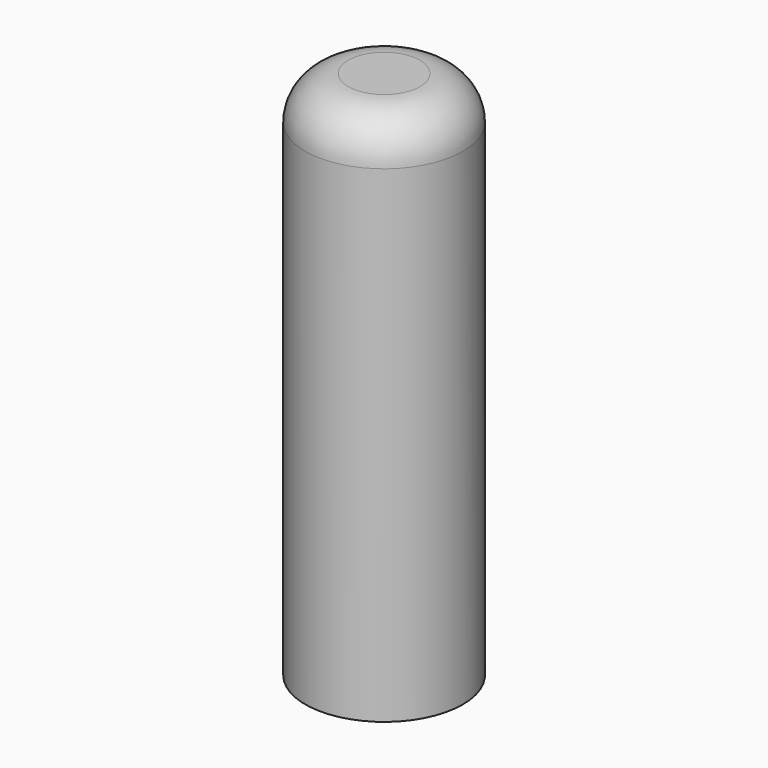
from build123d import *

# Parameters (mm, degrees)
F0_R     = 5.5
F1_DEPTH = 25
F2_R     = 4
F3_DEPTH = 10
F4_R     = 3
F5_DEPTH = 12


with BuildPart() as f1:
    # F0 (on Top) → F1 (new body)
    with BuildSketch(Plane.XY):
        Circle(F0_R)
    extrude(amount=F1_DEPTH)

    # F2 (on face) → F3 (cut)
    with BuildSketch(Plane(origin=(0, 0, 0), x_dir=(1, 0, 0), z_dir=(0, 0, -1))):
        Circle(F2_R)
    extrude(amount=-F3_DEPTH, mode=Mode.SUBTRACT)

    # F4
    f4_edges = [f1.edges().sort_by_distance(p)[0] for p in [
        (-5.5, 0, 25),
    ]]
    fillet(f4_edges, radius=F4_R)

    # F5 (add): a face of the model
    f5_faces = [f1.faces().sort_by_distance(p)[0] for p in [
        (-5.3444365081, 0, 0),
    ]]
    extrude(f5_faces, amount=F5_DEPTH)


solid = f1.part
